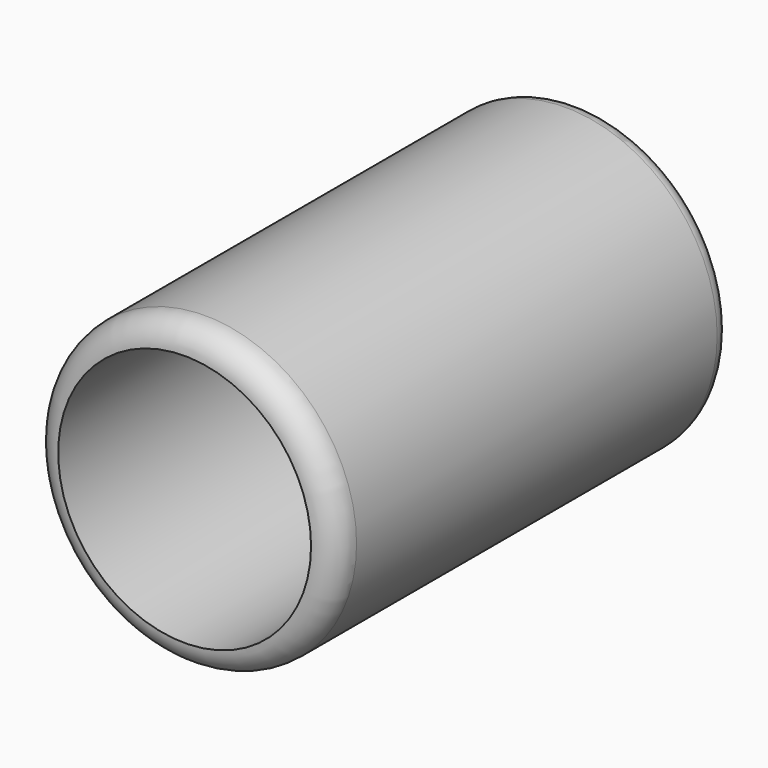
from build123d import *

# Parameters (mm, degrees)
F0_R      = 38.1
F1_DEPTH  = 123.825
F2_R      = 6.35
F1_FACE_R = 31.75
F3_DEPTH  = 114.3
F4_R      = 4.292472


with BuildPart() as f1:
    # F0 (on Front) → F1 (new body)
    with BuildSketch(Plane.XZ):
        Circle(F0_R)
    extrude(amount=F1_DEPTH)

    # F2
    f2_edges = [f1.edges().sort_by_distance(p)[0] for p in [
        (-38.1, -123.825, 0),
    ]]
    fillet(f2_edges, radius=F2_R)

    # F1_face (on face) → F3 (cut)
    with BuildSketch(Plane.XZ.offset(123.825)):
        Circle(F1_FACE_R)
    extrude(amount=-F3_DEPTH, mode=Mode.SUBTRACT)

    # F4
    f4_edges = [f1.edges().sort_by_distance(p)[0] for p in [
        (-38.1, 0, 0),
    ]]
    fillet(f4_edges, radius=F4_R)


solid = f1.part
